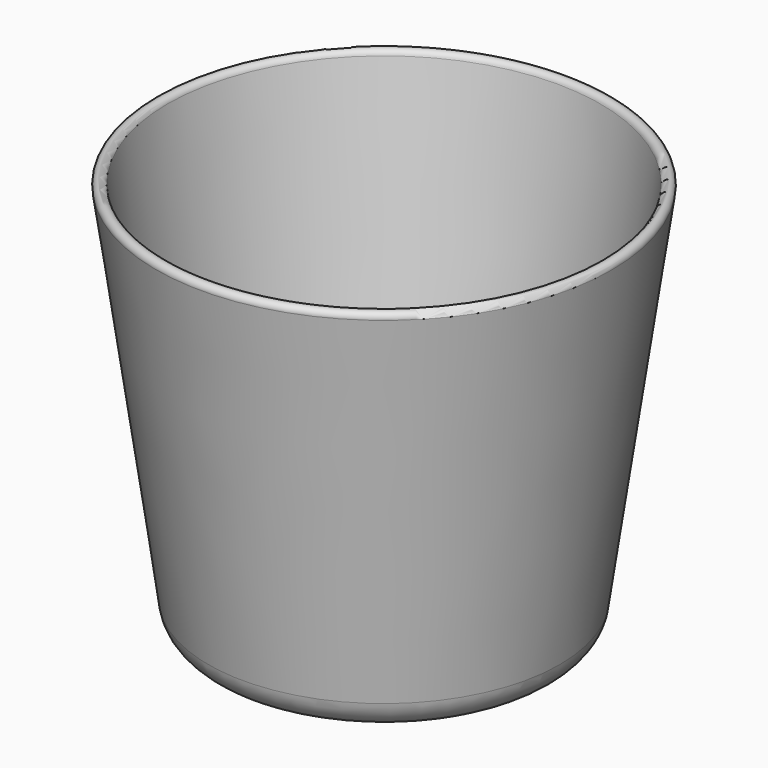
from build123d import *


with BuildPart() as f1:
    # F0 (on Front) → F1 (revolve)
    with BuildSketch(Plane.XZ):
        with BuildLine():
            Line((0, 12), (0, 0))
            Line((0, 0), (24.796228, 0))
            ThreePointArc((24.796228, 0), (28.727438, 1.467276), (30.735925, 5.151472))
            Line((30.735925, 5.151472), (39.83694, 68.858579))
            ThreePointArc((39.83694, 68.858579), (38.988412, 69.989949), (37.857041, 69.141421))
            Line((37.857041, 69.141421), (30.429905, 17.151472))
            ThreePointArc((30.429905, 17.151472), (28.421419, 13.467276), (24.490208, 12))
            Line((24.490208, 12), (0, 12))
        make_face()
    revolve(axis=Axis((0, 0, 41.755925), (0, 0, 1)))


solid = f1.part
